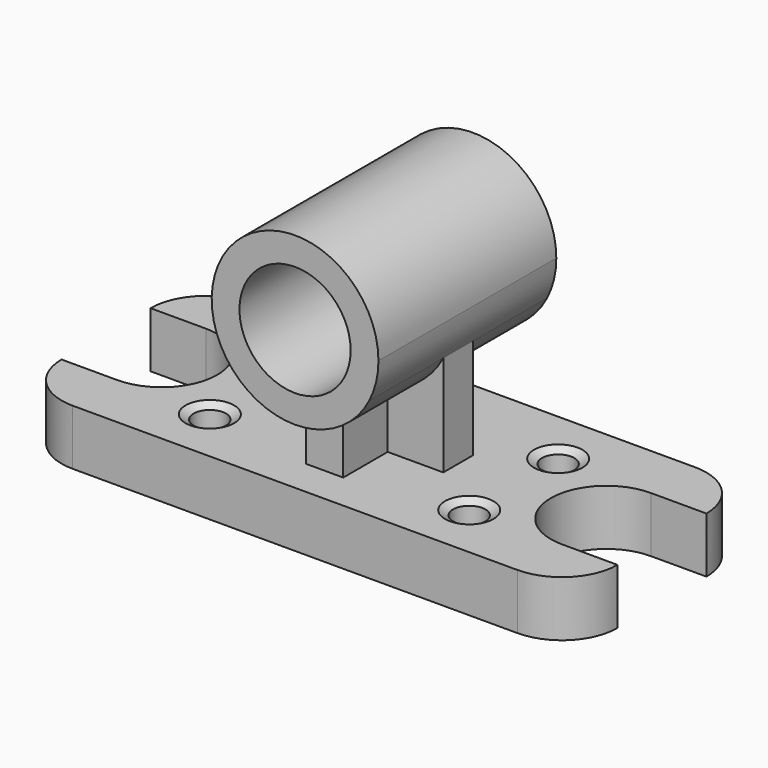
from build123d import *

# Parameters (mm, degrees)
F0_R     = 38.1
F0_W     = 228.6
F0_H     = 304.8
F0_R_2   = 22.225
F1_DEPTH = 76.2
F2_SIZE2 = 10.998523
F2_SIZE  = 6.35
F4_DEPTH = 101.6
F5_DEPTH = 25.4
F3_R     = 76.2
F6_DEPTH = 152.4


with BuildPart() as f1:
    # F0 (on Top) → F1 (new body)
    with BuildSketch(Plane.XY):
        with BuildLine():
            Line((-114.3, 152.4), (-304.8, 152.4))
            ThreePointArc((-304.8, 152.4), (-358.681537, 130.081537), (-381, 76.2))
            Line((-381, 76.2), (-304.8, 76.2))
            ThreePointArc((-304.8, 76.2), (-228.6, 0), (-304.8, -76.2))
            Line((-304.8, -76.2), (-381, -76.2))
            ThreePointArc((-381, -76.2), (-358.681537, -130.081537), (-304.8, -152.4))
            Line((-304.8, -152.4), (-114.3, -152.4))
            Line((-114.3, -152.4), (-114.3, 152.4))
        make_face()
        with Locations((-177.8, -76.2)):
            Circle(F0_R, mode=Mode.SUBTRACT)
        with Locations((-177.8, 76.2)):
            Circle(F0_R, mode=Mode.SUBTRACT)
        Rectangle(F0_W, F0_H)
        with BuildLine():
            Line((304.8, 152.4), (114.3, 152.4))
            Line((114.3, 152.4), (114.3, -152.4))
            Line((114.3, -152.4), (304.8, -152.4))
            ThreePointArc((304.8, -152.4), (358.681537, -130.081537), (381, -76.2))
            Line((381, -76.2), (304.8, -76.2))
            ThreePointArc((304.8, -76.2), (228.6, 0), (304.8, 76.2))
            Line((304.8, 76.2), (381, 76.2))
            ThreePointArc((381, 76.2), (358.681537, 130.081537), (304.8, 152.4))
        make_face()
        with Locations((177.8, -76.2)):
            Circle(F0_R, mode=Mode.SUBTRACT)
        with Locations((177.8, 76.2)):
            Circle(F0_R, mode=Mode.SUBTRACT)
        with Locations((177.8, 76.2)):
            Circle(F0_R)
        with Locations((177.8, 76.2)):
            Circle(F0_R_2, mode=Mode.SUBTRACT)
        with Locations((177.8, -76.2)):
            Circle(F0_R)
        with Locations((177.8, -76.2)):
            Circle(F0_R_2, mode=Mode.SUBTRACT)
        with Locations((-177.8, -76.2)):
            Circle(F0_R)
        with Locations((-177.8, -76.2)):
            Circle(F0_R_2, mode=Mode.SUBTRACT)
        with Locations((-177.8, 76.2)):
            Circle(F0_R)
        with Locations((-177.8, 76.2)):
            Circle(F0_R_2, mode=Mode.SUBTRACT)
    extrude(amount=F1_DEPTH)

    # F2
    f2_edges = [f1.edges().sort_by_distance(p)[0] for p in [
        (-200.025, 76.2, 76.2),
        (-200.025, -76.2, 76.2),
        (155.575, -76.2, 76.2),
        (155.575, 76.2, 76.2),
    ]]
    chamfer(f2_edges, length=F2_SIZE, length2=F2_SIZE2)

    # F3 (on Front) → F4 (join, symmetric)
    with BuildSketch(Plane.XZ):
        with BuildLine():
            ThreePointArc((25.4, 155.257952), (0, 152.4), (-25.4, 155.257952))
            Line((-25.4, 155.257952), (-25.4, 76.2))
            Line((-25.4, 76.2), (25.4, 76.2))
            Line((25.4, 76.2), (25.4, 155.257952))
        make_face()
    extrude(amount=F4_DEPTH, both=True)

    # F3 (on Front) → F5 (join, symmetric)
    with BuildSketch(Plane.XZ):
        with BuildLine():
            Line((101.6, 76.2), (101.6, 214.336559))
            ThreePointArc((101.6, 214.336559), (70.034423, 176.369111), (25.4, 155.257952))
            Line((25.4, 155.257952), (25.4, 76.2))
            Line((25.4, 76.2), (101.6, 76.2))
        make_face()
        with BuildLine():
            ThreePointArc((-25.4, 155.257952), (-70.034423, 176.369111), (-101.6, 214.336559))
            Line((-101.6, 214.336559), (-101.6, 76.2))
            Line((-101.6, 76.2), (-25.4, 76.2))
            Line((-25.4, 76.2), (-25.4, 155.257952))
        make_face()
    extrude(amount=F5_DEPTH, both=True)

    # F3 (on Front) → F6 (join, symmetric)
    with BuildSketch(Plane.XZ):
        with BuildLine():
            ThreePointArc((101.6, 214.336559), (111.079634, 239.759232), (114.3, 266.7))
            ThreePointArc((114.3, 266.7), (-26.940768, 377.779634), (-101.6, 214.336559))
            ThreePointArc((-101.6, 214.336559), (-70.034423, 176.369111), (-25.4, 155.257952))
            ThreePointArc((-25.4, 155.257952), (0, 152.4), (25.4, 155.257952))
            ThreePointArc((25.4, 155.257952), (70.034423, 176.369111), (101.6, 214.336559))
        make_face()
        with Locations((0, 266.7)):
            Circle(F3_R, mode=Mode.SUBTRACT)
    extrude(amount=F6_DEPTH, both=True)


solid = f1.part
